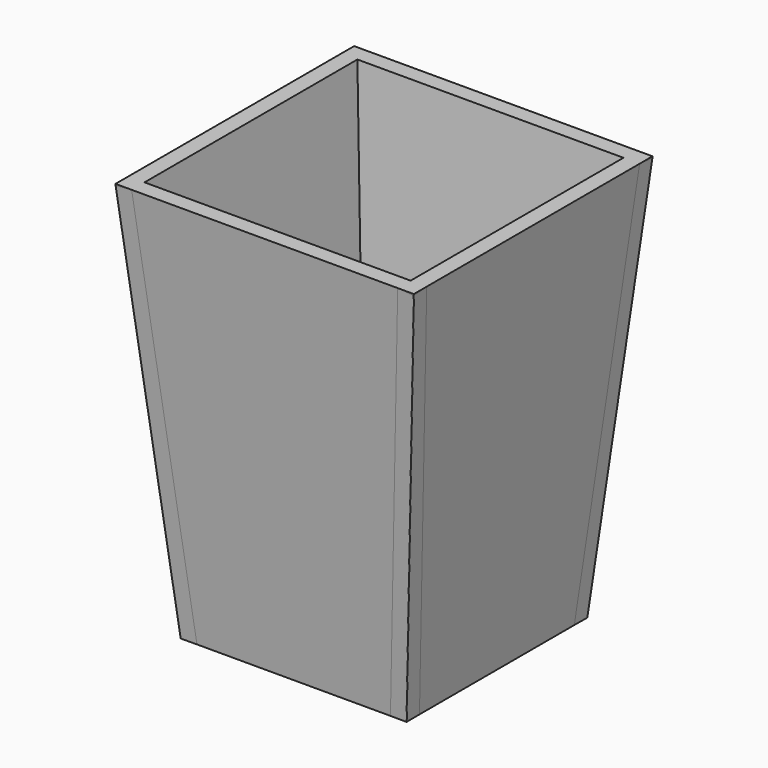
from build123d import *

# Parameters (mm, degrees)
PAD_DEPTH          = 18.5
PAD_DEPTH_BACK     = 18.5
POLARPATTERN_COUNT = 4
POCKET_DEPTH       = 6.4748338525
POCKET001_DEPTH    = 6.4748338525
POCKET002_DEPTH    = 1.9919488777
POCKET003_DEPTH    = 5
POCKET004_DEPTH    = 5
POCKET005_DEPTH    = 5
POCKET006_DEPTH    = 5
POCKET007_DEPTH    = 5
POCKET008_DEPTH    = 5


with BuildPart() as part:
    # Sketch → Pad (new body, two sides)
    with BuildSketch(Plane.XZ) as pad_sk:
        Polygon((-16.5, 50), (-12, 0), (-14, 0), (-18.5, 50), align=None)
    pad = extrude(amount=PAD_DEPTH) + extrude(pad_sk.sketch, amount=-PAD_DEPTH_BACK)

    # PolarPattern: Pad ×4 about axis
    polarpattern_axis = Axis((0, 0, 0), (0, 0, 1))
    for i in range(1, POLARPATTERN_COUNT):
        add(pad.rotate(polarpattern_axis, i * 360 / POLARPATTERN_COUNT))

    # PolarPattern Face15 → Pocket (cut, through all)
    with BuildSketch(Plane(origin=(-13.5, -17, 16.6666666667), x_dir=(0, -1, 0), z_dir=(0.9959744388, 0, 0.0896376995))):
        Polygon((-3, 16.73403053), (1.5, -33.4680610599), (1.5, 16.73403053), align=None)
    extrude(amount=-POCKET_DEPTH, mode=Mode.SUBTRACT)

    # Pocket Face11 → Pocket001 (cut, through all)
    with BuildSketch(Plane(origin=(-17, -13.5, 16.6666666667), x_dir=(1, 0, 0), z_dir=(0, 0.9959744388, 0.0896376995))):
        Polygon((-1.5, 16.73403053), (-1.5, -33.4680610599), (3, 16.73403053), align=None)
    extrude(amount=-POCKET001_DEPTH, mode=Mode.SUBTRACT)

    # Pocket001 Face4 → Pocket002 (cut)
    with BuildSketch(Plane(origin=(-15.5, 17, 16.6666666667), x_dir=(0, 1, 0), z_dir=(-0.9959744388, 0, -0.0896376995))):
        Polygon((1.5, -33.4680610599), (1.5, 16.73403053), (-3, 16.73403053), align=None)
    extrude(amount=-POCKET002_DEPTH, mode=Mode.SUBTRACT)

    # Pocket002 Face9 → Pocket003 (cut)
    with BuildSketch(Plane(origin=(-17, 13.5, 16.6666666667), x_dir=(-1, 0, 0), z_dir=(0, -0.9959744388, 0.0896376995))):
        Polygon((-3, 16.73403053), (1.5, -33.4680610599), (1.5, 16.73403053), align=None)
    extrude(amount=-POCKET003_DEPTH, mode=Mode.SUBTRACT)

    # Pocket003 Face15 → Pocket004 (cut)
    with BuildSketch(Plane(origin=(13.5, -17, 16.6666666667), x_dir=(0, 1, 0), z_dir=(-0.9959744388, 0, 0.0896376995))):
        Polygon((-1.5, 16.73403053), (-1.5, -33.4680610599), (3, 16.73403053), align=None)
    extrude(amount=-POCKET004_DEPTH, mode=Mode.SUBTRACT)

    # Pocket004 Face26 → Pocket005 (cut)
    with BuildSketch(Plane(origin=(13.5, 17, 16.6666666667), x_dir=(0, 1, 0), z_dir=(-0.9959744388, 0, 0.0896376995))):
        Polygon((-3, 16.73403053), (1.5, -33.4680610599), (1.5, 16.73403053), align=None)
    extrude(amount=-POCKET005_DEPTH, mode=Mode.SUBTRACT)

    # Pocket005 Face21 → Pocket006 (cut)
    with BuildSketch(Plane(origin=(17, 13.5, 16.6666666667), x_dir=(-1, 0, 0), z_dir=(0, -0.9959744388, 0.0896376995))):
        Polygon((-1.5, 16.73403053), (-1.5, -33.4680610599), (3, 16.73403053), align=None)
    extrude(amount=-POCKET006_DEPTH, mode=Mode.SUBTRACT)

    # Pocket006 Face19 → Pocket007 (cut)
    with BuildSketch(Plane(origin=(17, -13.5, 16.6666666667), x_dir=(1, 0, 0), z_dir=(0, 0.9959744388, 0.0896376995))):
        Polygon((-3, 16.73403053), (1.5, -33.4680610599), (1.5, 16.73403053), align=None)
    extrude(amount=-POCKET007_DEPTH, mode=Mode.SUBTRACT)

    # Pocket007 Face2 → Pocket008 (cut)
    with BuildSketch(Plane(origin=(-13.0080349172, 16.25, 0.0892768575), x_dir=(0, 1, 0), z_dir=(-0.0896376995, 0, 0.9959744388))):
        Polygon((2.25, 0.9959744388), (-2.25, 0.9959744388), (-2.25, -0.9959744388), (-2.2339301657, -0.9959744388), (2.25, -0.9959744388), align=None)
    extrude(amount=-POCKET008_DEPTH, mode=Mode.SUBTRACT)


solid = part.part
